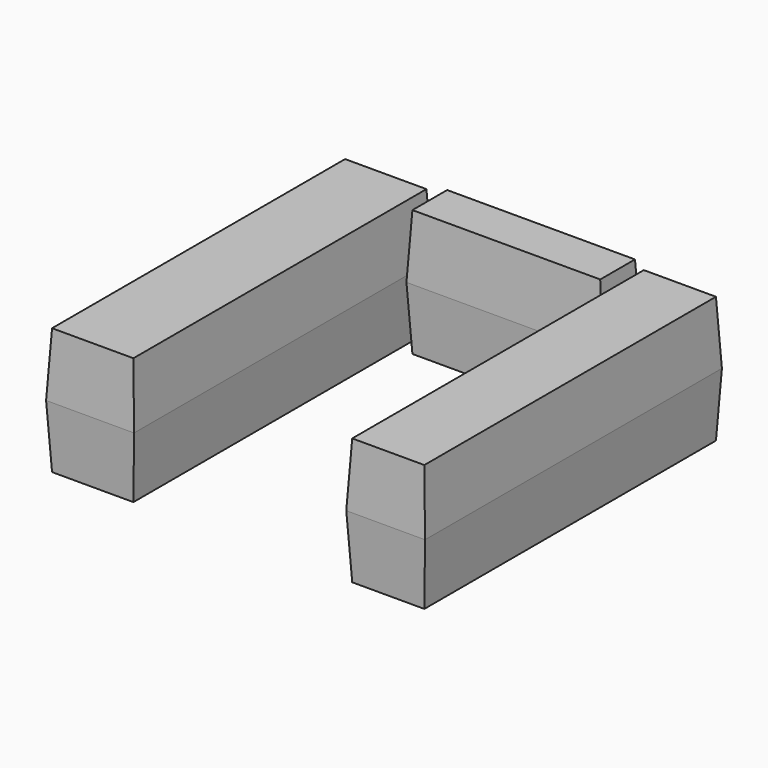
from build123d import *

# Parameters (mm, degrees)
F0_W          = 35.2822542191
F0_H          = 149.5577171445
F1_DEPTH      = 25.4
F1_TAPER      = 3
F1_DEPTH_BACK = 25.4
F1_TAPER_BACK = 3
F2_W          = 31.5851569176
F2_H          = 148.8319560885
F3_DEPTH      = 25.4
F3_TAPER      = 3
F3_DEPTH_BACK = 25.4
F3_TAPER_BACK = 3
F4_W          = 77.9811963439
F4_H          = 20.0772061944
F5_DEPTH      = 25.4
F5_TAPER      = 3
F5_DEPTH_BACK = 25.4
F5_TAPER_BACK = 3


with BuildPart() as f1:
    # F0 (on Top) → F1 (new body, two sides)
    with BuildSketch(Plane.XY) as f1_sk:
        with Locations((-57.9603612423, -0.0958256423)):
            Rectangle(F0_W, F0_H)
    extrude(amount=-F1_DEPTH, taper=F1_TAPER)
    extrude(f1_sk.sketch, amount=F1_DEPTH_BACK, taper=F1_TAPER_BACK)


with BuildPart() as f3:
    # F2 (on Top) → F3 (new body, two sides)
    with BuildSketch(Plane.XY) as f3_sk:
        with Locations((60.2748245001, -0.0923760235)):
            Rectangle(F2_W, F2_H)
    extrude(amount=F3_DEPTH, taper=F3_TAPER)
    extrude(f3_sk.sketch, amount=-F3_DEPTH_BACK, taper=F3_TAPER_BACK)


with BuildPart() as f5:
    # F4 (on Top) → F5 (new body, two sides)
    with BuildSketch(Plane.XY) as f5_sk:
        with Locations((1.4644451439, 68.2131759822)):
            Rectangle(F4_W, F4_H)
    extrude(amount=-F5_DEPTH, taper=F5_TAPER)
    extrude(f5_sk.sketch, amount=F5_DEPTH_BACK, taper=F5_TAPER_BACK)


solid = Compound([f1.part, f3.part, f5.part])
